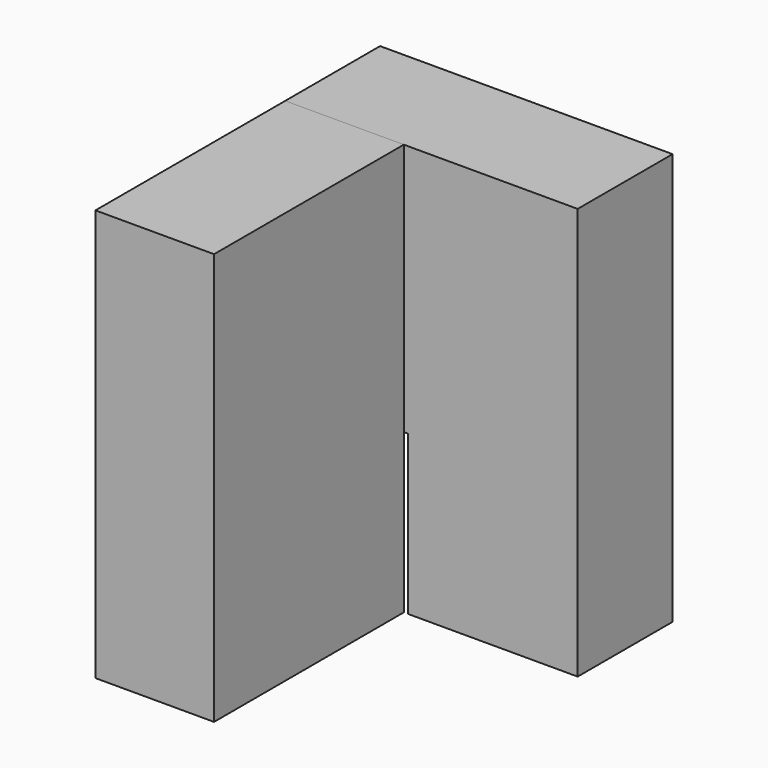
from build123d import *

# Parameters (mm, degrees)
F1_DEPTH = 25
F2_W     = 50
F2_H     = 86.803815
F3_DEPTH = 25


with BuildPart() as f1:
    # F0 (on Front) → F1 (new body)
    with BuildSketch(Plane.XZ):
        Polygon((61.657967, 53.351182), (0, 53.351182), (0, 0), (25.898259, 0), (25.898259, -33.452633), (61.657967, -33.452633), align=None)
    extrude(amount=F1_DEPTH)

    # F2 (on Right) → F3 (join)
    with BuildSketch(Plane.YZ):
        with Locations((-50, 9.949274)):
            Rectangle(F2_W, F2_H)
    extrude(amount=F3_DEPTH)


solid = f1.part
